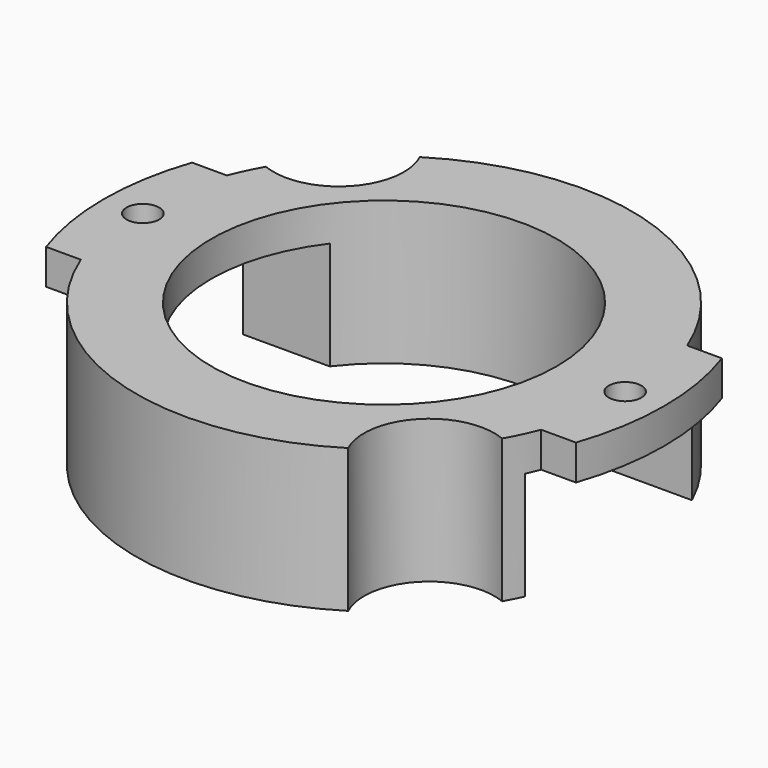
from build123d import *

# Parameters (mm, degrees)
F0_R          = 38
F0_R_2        = 26.5
F1_DEPTH      = 18
F1_DEPTH_BACK = 4
F3_DEPTH      = 5.4
F5_DEPTH      = 16.601
F7_D          = 5
F8_D          = 20


with BuildPart() as f1:
    # F0 (on Top) → F1 (new body, two sides)
    with BuildSketch(Plane.XY) as f1_sk:
        Circle(F0_R)
        Circle(F0_R_2, mode=Mode.SUBTRACT)
    extrude(amount=F1_DEPTH)
    extrude(f1_sk.sketch, amount=-F1_DEPTH_BACK)

    # F2 (on face) → F3 (join)
    with BuildSketch(Plane.XY.offset(18)):
        with BuildLine():
            Line((-35.327043, 14), (-40.657103, 14))
            ThreePointArc((-40.657103, 14), (-43, 0), (-40.657103, -14))
            Line((-40.657103, -14), (-35.327043, -14))
            ThreePointArc((-35.327043, -14), (-38, 0), (-35.327043, 14))
        make_face()
        with BuildLine():
            Line((-28.217902, 14), (-35.327043, 14))
            ThreePointArc((-35.327043, 14), (-38, 0), (-35.327043, -14))
            Line((-35.327043, -14), (-28.217902, -14))
            ThreePointArc((-28.217902, -14), (-31.5, 0), (-28.217902, 14))
        make_face()
        with BuildLine():
            ThreePointArc((38, 0), (37.32578, 7.126442), (35.327043, 14))
            Line((35.327043, 14), (28.217902, 14))
            ThreePointArc((28.217902, 14), (31.5, 0), (28.217902, -14))
            Line((28.217902, -14), (35.327043, -14))
            ThreePointArc((35.327043, -14), (37.32578, -7.126442), (38, 0))
        make_face()
        with BuildLine():
            Line((40.657103, 14), (35.327043, 14))
            ThreePointArc((35.327043, 14), (37.32578, 7.126442), (38, 0))
            ThreePointArc((38, 0), (37.32578, -7.126442), (35.327043, -14))
            Line((35.327043, -14), (40.657103, -14))
            ThreePointArc((40.657103, -14), (43, 0), (40.657103, 14))
        make_face()
    extrude(amount=-F3_DEPTH)

    # F4 (on face) → F5 (cut, through all)
    with BuildSketch(Plane(origin=(0, 0, 12.6), x_dir=(1, 0, 0), z_dir=(0, 0, -1))):
        with BuildLine():
            Line((-15.099669, 16), (-34.467376, 16))
            ThreePointArc((-34.467376, 16), (-38, 0), (-34.467376, -16))
            Line((-34.467376, -16), (-15.099669, -16))
            ThreePointArc((-15.099669, -16), (-22, 0), (-15.099669, 16))
        make_face()
        with BuildLine():
            ThreePointArc((15.099669, 16), (22, 0), (15.099669, -16))
            Line((15.099669, -16), (34.467376, -16))
            ThreePointArc((34.467376, -16), (38, 0), (34.467376, 16))
            Line((34.467376, 16), (15.099669, 16))
        make_face()
    extrude(amount=F5_DEPTH, mode=Mode.SUBTRACT)

    # F7 (through all)
    with Locations(Plane.XY.offset(18)):
        with Locations((-37, 0), (37, 0)):
            Hole(F7_D / 2)

    # F8 (through all)
    with Locations(Plane.XY.offset(18)):
        with Locations((-29.304576, 27.955175), (29.304576, -27.955175)):
            Hole(F8_D / 2)


solid = f1.part
